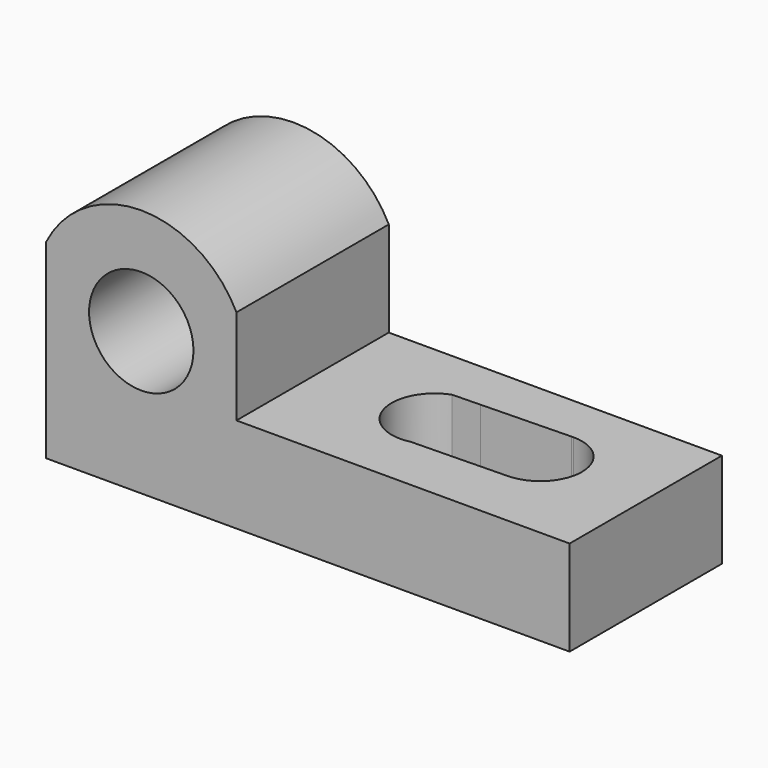
from build123d import *

# Parameters (mm, degrees)
F1_DEPTH = 25.4
F2_R     = 6.963826
F3_DEPTH = 25.4
F5_DEPTH = 12.7


with BuildPart() as f1:
    # F0 (on Front) → F1 (new body)
    with BuildSketch(Plane.XZ):
        Polygon((0, 38.1), (0, 0), (69.85, 0), (69.85, 12.7), (25.4, 12.7), (25.4, 38.1), align=None)
    extrude(amount=F1_DEPTH)

    # F2 (on face) → F3 (cut)
    with BuildSketch(Plane.XZ.offset(25.4)):
        with Locations((12.7, 19.05)):
            Circle(F2_R)
        with BuildLine():
            ThreePointArc((0, 25.4), (12.7, 33.255156), (25.4, 25.4))
            Line((25.4, 25.4), (25.4, 38.1))
            Line((25.4, 38.1), (0, 38.1))
            Line((0, 38.1), (0, 25.4))
        make_face()
    extrude(amount=-F3_DEPTH, mode=Mode.SUBTRACT)

    # F4 (on Top) → F5 (cut)
    with BuildSketch(Plane.XY):
        with BuildLine():
            ThreePointArc((47.063009, -12.219809), (45.820597, -15.790974), (42.629922, -17.819863))
            Line((42.629922, -17.819863), (55.326719, -17.534672))
            ThreePointArc((55.326719, -17.534672), (49.649912, -12.184477), (54.918351, -6.431715))
            Line((54.918351, -6.431715), (43.04726, -6.734904))
            ThreePointArc((43.04726, -6.734904), (45.951759, -8.820897), (47.063009, -12.219809))
        make_face()
        with BuildLine():
            ThreePointArc((54.918351, -6.431715), (49.649912, -12.184477), (55.326719, -17.534672))
            ThreePointArc((55.326719, -17.534672), (59.174368, -15.864457), (60.757759, -11.980272))
            ThreePointArc((60.757759, -11.980272), (59.130503, -8.051728), (55.201958, -6.424471))
            Line((55.201958, -6.424471), (54.918351, -6.431715))
        make_face()
        with BuildLine():
            Line((43.04726, -6.734904), (39.293736, -6.83077))
            ThreePointArc((39.293736, -6.83077), (35.803833, -13.891235), (42.629922, -17.819863))
            ThreePointArc((42.629922, -17.819863), (45.820597, -15.790974), (47.063009, -12.219809))
            ThreePointArc((47.063009, -12.219809), (45.951759, -8.820897), (43.04726, -6.734904))
        make_face()
    extrude(amount=F5_DEPTH, mode=Mode.SUBTRACT)


solid = f1.part
